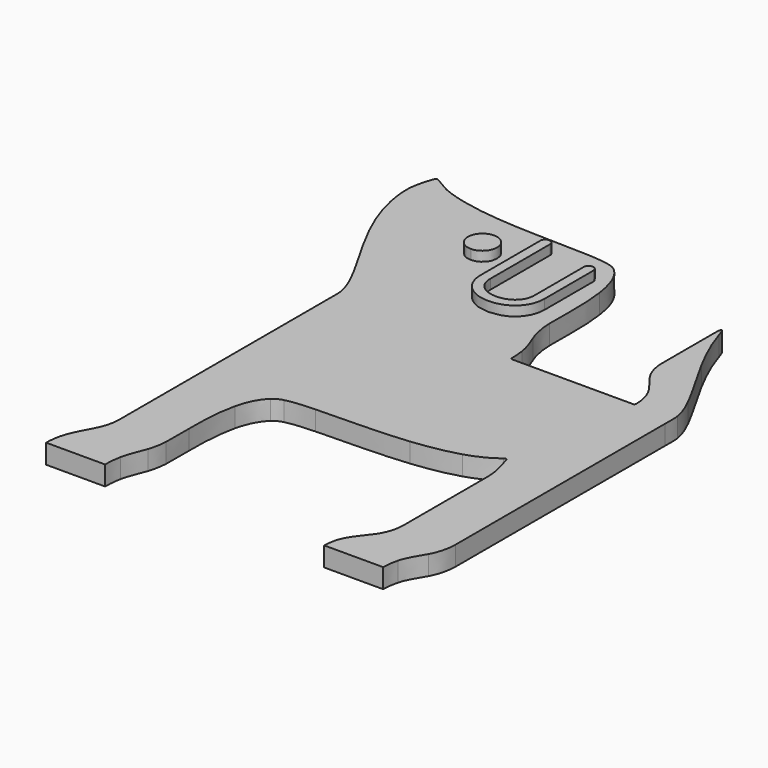
from build123d import *

# Parameters (mm, degrees)
EXTRUDE_DEPTH    = 3
EXTRUDE001_DEPTH = 3
EXTRUDE002_DEPTH = 2


with BuildPart() as extrude_body:
    # path2 → Extrude (new body)
    with BuildSketch(Plane(origin=(-9.166837, 19.906706, 0), x_dir=(0, -1, 0), z_dir=(0, 0, -1))):
        with BuildLine():
            add(Edge.make_bspline(
                [(0, -1.500001), (-1.5, -1.500001), (-1.5, -1e-06)],
                knots=[0, 0, 0, 1.570796, 1.570796, 1.570796], degree=2, weights=[1, 0.707107, 1]))
            add(Edge.make_bspline(
                [(1.5, -1e-06), (1.5, -1.500001), (0, -1.500001)],
                knots=[4.712389, 4.712389, 4.712389, 6.283185, 6.283185, 6.283185], degree=2, weights=[1, 0.707107, 1]))
            add(Edge.make_bspline(
                [(0, 1.500001), (1.500001, 1.500001), (1.5, -1e-06)],
                knots=[3.141593, 3.141593, 3.141593, 4.71239, 4.71239, 4.71239], degree=2, weights=[1, 0.707107, 1]))
            add(Edge.make_bspline(
                [(-1.5, -1e-06), (-1.500001, 1.500001), (0, 1.500001)],
                knots=[1.570796, 1.570796, 1.570796, 3.141593, 3.141593, 3.141593], degree=2, weights=[1, 0.707107, 1]))
        make_face()
    extrude(amount=-EXTRUDE_DEPTH)


with BuildPart() as extrude001:
    # path3 → Extrude001 (new body)
    with BuildSketch(Plane(origin=(-2.57227, 17.055041, 0), x_dir=(0, -1, 0), z_dir=(0, 0, -1))):
        with BuildLine():
            add(Edge.make_bspline(
                [(-5.96104, 2.124646), (-6.46104, 2.124646), (-6.46104, 2.624646)],
                knots=[0, 0, 0, 1.570796, 1.570796, 1.570796], degree=2, weights=[1, 0.707107, 1]))
            Line((-5.96104, 2.124646), (1.722554, 2.124646))
            add(Edge.make_bspline(
                [(1.722554, 2.124646), (2.462416, 2.124646), (2.953561, 1.851898), (3.302631, 1.43324)],
                knots=[0, 0, 0, 0, 1, 1, 1, 1], degree=3))
            add(Edge.make_bspline(
                [(3.302631, 1.43324), (3.6517, 1.014581), (3.841693, 0.427533), (3.841693, -0.16637)],
                knots=[0, 0, 0, 0, 1, 1, 1, 1], degree=3))
            add(Edge.make_bspline(
                [(3.841693, -0.16637), (3.841693, -0.760272), (3.6517, -1.34732), (3.302631, -1.765979)],
                knots=[0, 0, 0, 0, 1, 1, 1, 1], degree=3))
            add(Edge.make_bspline(
                [(3.302631, -1.765979), (2.953561, -2.184637), (2.462416, -2.459338), (1.722554, -2.459338)],
                knots=[0, 0, 0, 0, 1, 1, 1, 1], degree=3))
            Line((1.722554, -2.459338), (-4.564556, -2.459338))
            add(Edge.make_bspline(
                [(-5.064556, -2.959338), (-5.064556, -2.459338), (-4.564556, -2.459338)],
                knots=[1.570796, 1.570796, 1.570796, 3.141593, 3.141593, 3.141593], degree=2, weights=[1, 0.707107, 1]))
            add(Edge.make_bspline(
                [(-4.564556, -3.459338), (-5.064556, -3.459338), (-5.064556, -2.959338)],
                knots=[0, 0, 0, 1.570796, 1.570796, 1.570796], degree=2, weights=[1, 0.707107, 1]))
            Line((-4.564556, -3.459338), (1.722554, -3.459338))
            add(Edge.make_bspline(
                [(1.722554, -3.459338), (2.72894, -3.459338), (3.546153, -3.035133), (4.070209, -2.406604)],
                knots=[0, 0, 0, 0, 1, 1, 1, 1], degree=3))
            add(Edge.make_bspline(
                [(4.070209, -2.406604), (4.594265, -1.778075), (4.841693, -0.968717), (4.841693, -0.16637)],
                knots=[0, 0, 0, 0, 1, 1, 1, 1], degree=3))
            add(Edge.make_bspline(
                [(4.841693, -0.16637), (4.841693, 0.635978), (4.594265, 1.445336), (4.070209, 2.073865)],
                knots=[0, 0, 0, 0, 1, 1, 1, 1], degree=3))
            add(Edge.make_bspline(
                [(4.070209, 2.073865), (3.546153, 2.702394), (2.72894, 3.124646), (1.722554, 3.124646)],
                knots=[0, 0, 0, 0, 1, 1, 1, 1], degree=3))
            Line((1.722554, 3.124646), (-5.96104, 3.124646))
            add(Edge.make_bspline(
                [(-6.46104, 2.624646), (-6.46104, 3.124646), (-5.96104, 3.124646)],
                knots=[1.570796, 1.570796, 1.570796, 3.141593, 3.141593, 3.141593], degree=2, weights=[1, 0.707107, 1]))
        make_face()
    extrude(amount=-EXTRUDE001_DEPTH)


with BuildPart() as extrude002:
    # path1 → Extrude002 (new body)
    with BuildSketch(Plane(origin=(0.084631, 1.977421, 0), x_dir=(0, -1, 0), z_dir=(0, 0, -1))):
        with BuildLine():
            add(Edge.make_bspline(
                [(-24.77118, 18.435158), (-24.432756, 17.659812), (-24.188336, 16.839797), (-23.989876, 16.021395)],
                knots=[0, 0, 0, 0, 1, 1, 1, 1], degree=3))
            add(Edge.make_bspline(
                [(-23.989876, 16.021395), (-23.413763, 13.550757), (-23.252414, 11.007638), (-23.158795, 8.479622)],
                knots=[0, 0, 0, 0, 1, 1, 1, 1], degree=3))
            add(Edge.make_bspline(
                [(-23.158795, 8.479622), (-23.081955, 6.398389), (-23.095295, 4.314465), (-22.990631, 2.234207)],
                knots=[0, 0, 0, 0, 1, 1, 1, 1], degree=3))
            add(Edge.make_bspline(
                [(-22.990631, 2.234207), (-22.934391, 1.432825), (-22.896151, 0.602422), (-22.647787, -0.173055)],
                knots=[0, 0, 0, 0, 1, 1, 1, 1], degree=3))
            add(Edge.make_bspline(
                [(-22.647787, -0.173055), (-22.488204, -0.656124), (-22.088154, -1.011458), (-21.688823, -1.30292)],
                knots=[0, 0, 0, 0, 1, 1, 1, 1], degree=3))
            add(Edge.make_bspline(
                [(-21.688823, -1.30292), (-20.737401, -1.954005), (-19.585897, -2.217997), (-18.462825, -2.390379)],
                knots=[0, 0, 0, 0, 1, 1, 1, 1], degree=3))
            add(Edge.make_bspline(
                [(-18.462825, -2.390379), (-16.241769, -2.712048), (-13.991853, -2.59057), (-11.75274, -2.603684)],
                knots=[0, 0, 0, 0, 1, 1, 1, 1], degree=3))
            add(Edge.make_bspline(
                [(-11.75274, -2.603684), (-10.775113, -2.621314), (-9.79867, -2.799133), (-8.891179, -3.167848)],
                knots=[0, 0, 0, 0, 1, 1, 1, 1], degree=3))
            add(Edge.make_bspline(
                [(-8.891179, -3.167848), (-8.129946, -3.473956), (-7.37339, -3.782689), (-6.556878, -3.89353)],
                knots=[0, 0, 0, 0, 1, 1, 1, 1], degree=3))
            add(Edge.make_bspline(
                [(-6.556878, -3.89353), (-6.0673, -3.96951), (-5.585823, -3.993608), (-5.087897, -3.995871)],
                knots=[0, 0, 0, 0, 1, 1, 1, 1], degree=3))
            add(Edge.make_bspline(
                [(-5.087897, -3.995871), (-4.962098, -4.067131), (-4.978185, -4.196705), (-4.983209, -4.321731)],
                knots=[0, 0, 0, 0, 1, 1, 1, 1], degree=3))
            Line((-4.983209, -4.321731), (-4.983209, -16.668137))
            add(Edge.make_bspline(
                [(-4.983209, -16.668137), (-5.049559, -16.778491), (-5.157986, -16.786486), (-5.274678, -16.771244)],
                knots=[0, 0, 0, 0, 1, 1, 1, 1], degree=3))
            add(Edge.make_bspline(
                [(-5.274678, -16.771244), (-6.153317, -16.755294), (-7.03021, -16.505395), (-7.762381, -16.013864)],
                knots=[0, 0, 0, 0, 1, 1, 1, 1], degree=3))
            add(Edge.make_bspline(
                [(-7.762381, -16.013864), (-8.630431, -15.446507), (-9.356216, -14.647221), (-10.345636, -14.277993)],
                knots=[0, 0, 0, 0, 1, 1, 1, 1], degree=3))
            add(Edge.make_bspline(
                [(-10.345636, -14.277993), (-10.804059, -14.100481), (-11.266997, -14.016847), (-11.763678, -13.98884)],
                knots=[0, 0, 0, 0, 1, 1, 1, 1], degree=3))
            add(Edge.make_bspline(
                [(-11.763678, -13.98884), (-12.589453, -13.97215), (-13.440187, -13.98594), (-14.275397, -13.98144)],
                knots=[0, 0, 0, 0, 1, 1, 1, 1], degree=3))
            Line((-14.275397, -13.98144), (-18.663678, -13.98144))
            add(Edge.make_bspline(
                [(-18.663678, -13.98144), (-19.768247, -13.98144), (-19.778648, -14.138585), (-18.724738, -14.467131)],
                knots=[0, 0, 0, 0, 1, 1, 1, 1], degree=3))
            add(Edge.make_bspline(
                [(-18.724738, -14.467131), (-16.973958, -15.01292), (-15.30189, -15.811025), (-13.686952, -16.673968)],
                knots=[0, 0, 0, 0, 1, 1, 1, 1], degree=3))
            add(Edge.make_bspline(
                [(-13.686952, -16.673968), (-11.805229, -17.672179), (-10.002037, -18.812848), (-8.103477, -19.779751)],
                knots=[0, 0, 0, 0, 1, 1, 1, 1], degree=3))
            add(Edge.make_bspline(
                [(-8.103477, -19.779751), (-7.300659, -20.176542), (-6.455766, -20.560885), (-5.588284, -20.709174)],
                knots=[0, 0, 0, 0, 1, 1, 1, 1], degree=3))
            add(Edge.make_bspline(
                [(-5.588284, -20.709174), (-5.037928, -20.787684), (-4.479784, -20.736114), (-3.925941, -20.750974)],
                knots=[0, 0, 0, 0, 1, 1, 1, 1], degree=3))
            add(Edge.make_bspline(
                [(-3.925941, -20.750974), (5.059546, -20.749574), (14.045075, -20.753774), (23.030535, -20.748874)],
                knots=[0, 0, 0, 0, 1, 1, 1, 1], degree=3))
            add(Edge.make_bspline(
                [(23.030535, -20.748874), (23.935307, -20.738974), (24.859561, -20.52977), (25.658965, -20.082283)],
                knots=[0, 0, 0, 0, 1, 1, 1, 1], degree=3))
            add(Edge.make_bspline(
                [(25.658965, -20.082283), (26.446921, -19.648412), (27.194687, -19.109211), (28.077125, -18.879117)],
                knots=[0, 0, 0, 0, 1, 1, 1, 1], degree=3))
            add(Edge.make_bspline(
                [(28.077125, -18.879117), (28.613835, -18.726641), (29.173153, -18.664265), (29.730075, -18.657641)],
                knots=[0, 0, 0, 0, 1, 1, 1, 1], degree=3))
            Line((29.730075, -18.657641), (29.730075, -12.586938))
            add(Edge.make_bspline(
                [(29.730075, -12.586938), (29.008011, -12.594338), (28.265391, -12.751286), (27.628685, -13.103223)],
                knots=[0, 0, 0, 0, 1, 1, 1, 1], degree=3))
            add(Edge.make_bspline(
                [(27.628685, -13.103223), (26.626125, -13.644005), (25.870253, -14.5624), (24.807845, -15.004567)],
                knots=[0, 0, 0, 0, 1, 1, 1, 1], degree=3))
            add(Edge.make_bspline(
                [(24.807845, -15.004567), (24.075473, -15.329201), (23.263067, -15.399395), (22.470779, -15.377563)],
                knots=[0, 0, 0, 0, 1, 1, 1, 1], degree=3))
            add(Edge.make_bspline(
                [(22.470779, -15.377563), (18.989155, -15.375463), (15.507457, -15.381863), (12.025882, -15.374363)],
                knots=[0, 0, 0, 0, 1, 1, 1, 1], degree=3))
            add(Edge.make_bspline(
                [(12.025882, -15.374363), (10.932355, -15.347483), (9.879769, -15.006847), (8.847653, -14.674455)],
                knots=[0, 0, 0, 0, 1, 1, 1, 1], degree=3))
            add(Edge.make_bspline(
                [(8.847653, -14.674455), (8.784933, -14.556889), (8.805473, -14.45706), (8.908553, -14.374046)],
                knots=[0, 0, 0, 0, 1, 1, 1, 1], degree=3))
            add(Edge.make_bspline(
                [(8.908553, -14.374046), (9.621073, -13.48879), (10.080279, -12.417937), (10.415781, -11.35804)],
                knots=[0, 0, 0, 0, 1, 1, 1, 1], degree=3))
            add(Edge.make_bspline(
                [(10.415781, -11.35804), (10.888986, -9.837363), (11.138305, -8.242638), (11.30291, -6.659308)],
                knots=[0, 0, 0, 0, 1, 1, 1, 1], degree=3))
            add(Edge.make_bspline(
                [(11.30291, -6.659308), (11.625928, -3.533518), (11.583541, -0.384309), (11.687472, 2.755643)],
                knots=[0, 0, 0, 0, 1, 1, 1, 1], degree=3))
            add(Edge.make_bspline(
                [(11.687472, 2.755643), (11.734752, 3.756548), (11.762742, 4.76931), (12.000479, 5.747308)],
                knots=[0, 0, 0, 0, 1, 1, 1, 1], degree=3))
            add(Edge.make_bspline(
                [(12.000479, 5.747308), (12.084219, 6.112292), (12.257957, 6.454601), (12.523266, 6.721139)],
                knots=[0, 0, 0, 0, 1, 1, 1, 1], degree=3))
            add(Edge.make_bspline(
                [(12.523266, 6.721139), (13.244558, 7.498401), (14.273624, 7.891711), (15.281948, 8.139205)],
                knots=[0, 0, 0, 0, 1, 1, 1, 1], degree=3))
            add(Edge.make_bspline(
                [(15.281948, 8.139205), (17.050742, 8.554813), (18.879844, 8.586526), (20.6882, 8.586175)],
                knots=[0, 0, 0, 0, 1, 1, 1, 1], degree=3))
            add(Edge.make_bspline(
                [(20.6882, 8.586175), (21.66594, 8.592875), (22.64495, 8.539805), (23.621758, 8.596265)],
                knots=[0, 0, 0, 0, 1, 1, 1, 1], degree=3))
            add(Edge.make_bspline(
                [(23.621758, 8.596265), (24.245704, 8.637145), (24.890348, 8.75205), (25.484948, 8.953073)],
                knots=[0, 0, 0, 0, 1, 1, 1, 1], degree=3))
            add(Edge.make_bspline(
                [(25.484948, 8.953073), (26.301482, 9.23093), (27.106126, 9.635074), (27.971592, 9.796894)],
                knots=[0, 0, 0, 0, 1, 1, 1, 1], degree=3))
            add(Edge.make_bspline(
                [(27.971592, 9.796894), (28.549752, 9.915171), (29.140662, 9.960456), (29.730076, 9.964993)],
                knots=[0, 0, 0, 0, 1, 1, 1, 1], degree=3))
            Line((29.730076, 9.964993), (29.730076, 16.036868))
            add(Edge.make_bspline(
                [(29.730076, 16.036868), (29.195872, 16.031068), (28.691102, 15.973238), (28.160936, 15.848196)],
                knots=[0, 0, 0, 0, 1, 1, 1, 1], degree=3))
            add(Edge.make_bspline(
                [(28.160936, 15.848196), (27.248108, 15.636844), (26.429738, 15.16679), (25.614438, 14.723582)],
                knots=[0, 0, 0, 0, 1, 1, 1, 1], degree=3))
            add(Edge.make_bspline(
                [(25.614438, 14.723582), (24.82343, 14.28168), (23.944218, 13.964024), (23.0302, 13.946654)],
                knots=[0, 0, 0, 0, 1, 1, 1, 1], degree=3))
            add(Edge.make_bspline(
                [(23.0302, 13.946654), (18.677132, 13.939354), (14.323908, 13.945654), (9.970779, 13.943554)],
                knots=[0, 0, 0, 0, 1, 1, 1, 1], degree=3))
            add(Edge.make_bspline(
                [(9.970779, 13.943554), (4.923148, 13.945154), (-0.124583, 13.940254), (-5.172152, 13.945954)],
                knots=[0, 0, 0, 0, 1, 1, 1, 1], degree=3))
            add(Edge.make_bspline(
                [(-5.172152, 13.945954), (-6.112935, 13.987004), (-6.994444, 14.370484), (-7.83684, 14.761064)],
                knots=[0, 0, 0, 0, 1, 1, 1, 1], degree=3))
            add(Edge.make_bspline(
                [(-7.83684, 14.761064), (-9.589286, 15.610872), (-11.240602, 16.64921), (-12.946025, 17.58655)],
                knots=[0, 0, 0, 0, 1, 1, 1, 1], degree=3))
            add(Edge.make_bspline(
                [(-12.946025, 17.58655), (-15.291462, 18.885156), (-17.72585, 20.090712), (-20.360469, 20.649122)],
                knots=[0, 0, 0, 0, 1, 1, 1, 1], degree=3))
            add(Edge.make_bspline(
                [(-20.360469, 20.649122), (-21.165243, 20.813256), (-21.985484, 20.92784), (-22.816018, 20.9232)],
                knots=[0, 0, 0, 0, 1, 1, 1, 1], degree=3))
            add(Edge.make_bspline(
                [(-22.816018, 20.9232), (-23.117702, 20.9211), (-23.419343, 20.89185), (-23.719826, 20.84384)],
                knots=[0, 0, 0, 0, 1, 1, 1, 1], degree=3))
            add(Edge.make_bspline(
                [(-23.719826, 20.84384), (-24.809499, 20.669728), (-25.859092, 20.243257), (-25.769924, 20.162261)],
                knots=[0, 0, 0, 0, 1, 1, 1, 1], degree=3))
            Line((-25.769924, 20.162261), (-24.77118, 18.435158))
        make_face()
    extrude(amount=-EXTRUDE002_DEPTH)


solid = Compound([extrude_body.part, extrude001.part, extrude002.part])
